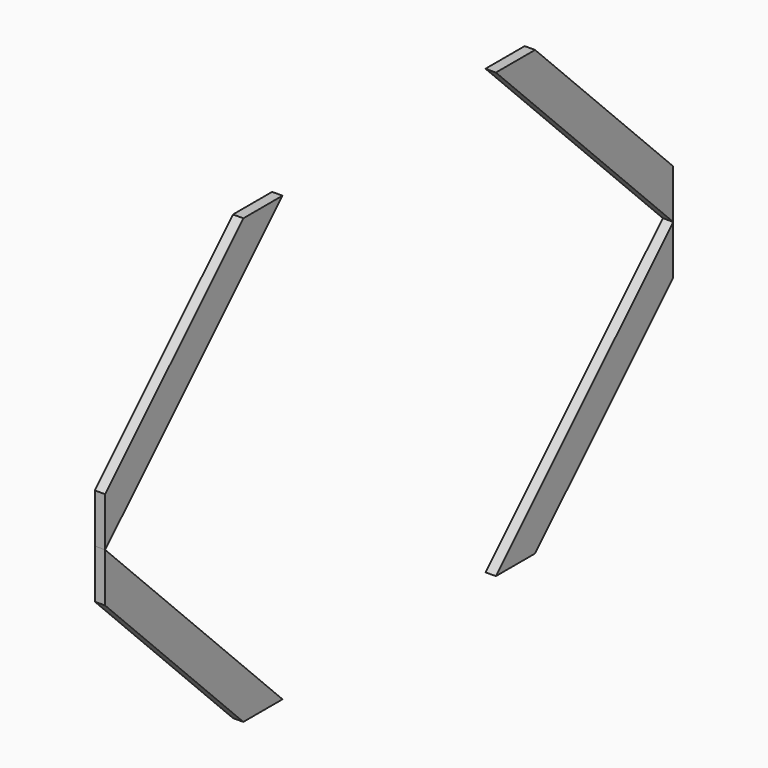
from build123d import *

# Parameters (mm, degrees)
F1_DEPTH = 30


with BuildPart() as f1:
    # F0 (on Right) → F1 (new body)
    with BuildSketch(Plane.YZ):
        Polygon((0, 781.421356), (0, 640), (640, 1280), (498.578644, 1280), align=None)
        Polygon((0, 640), (0, 498.578644), (498.578644, 0), (640, 0), align=None)
        Polygon((2050, 498.578644), (2050, 640), (1410, 0), (1551.421356, 0), align=None)
        Polygon((2050, 781.421356), (1551.421356, 1280), (1410, 1280), (2050, 640), align=None)
    extrude(amount=F1_DEPTH)


solid = f1.part
